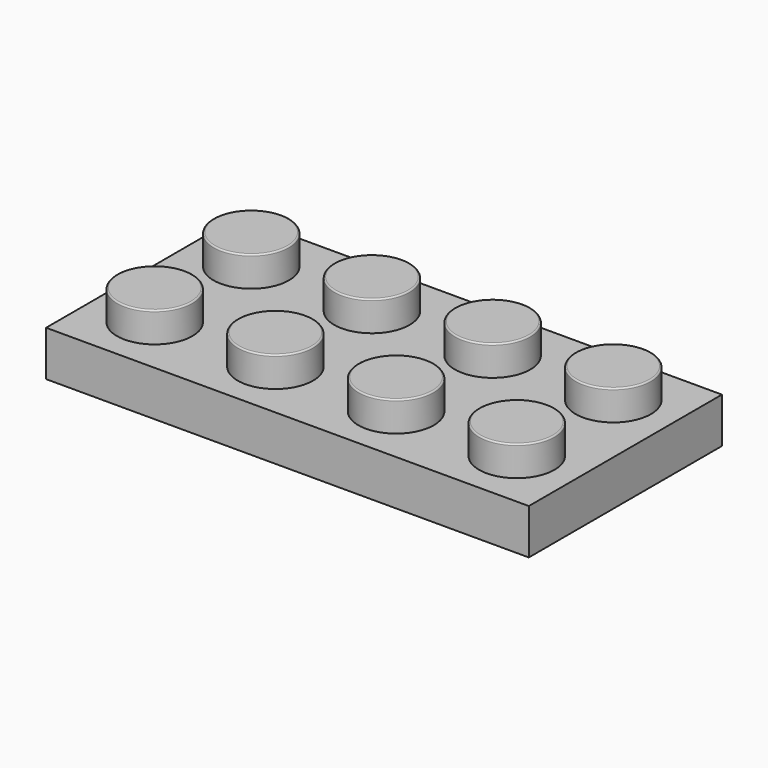
from build123d import *

# Parameters (mm, degrees)
F0_W     = 32
F0_H     = 16
F1_DEPTH = 3
F2_R     = 2.5
F3_DEPTH = 2
F4_R     = 0.1
F5_T     = -1.5
F6_R     = 3
F6_R_2   = 2.25
F7_DEPTH = 1.5


with BuildPart() as f1:
    # F0 (on Top) → F1 (new body)
    with BuildSketch(Plane.XY):
        Rectangle(F0_W, F0_H)
    extrude(amount=F1_DEPTH)

    # F2 (on face) → F3 (join)
    with BuildSketch(Plane.XY.offset(3)):
        with Locations((-12, 4)):
            Circle(F2_R)
        with Locations((-12, -4)):
            Circle(F2_R)
        with Locations((-4, 4)):
            Circle(F2_R)
        with Locations((-4, -4)):
            Circle(F2_R)
        with Locations((4, 4)):
            Circle(F2_R)
        with Locations((4, -4)):
            Circle(F2_R)
        with Locations((12, 4)):
            Circle(F2_R)
        with Locations((12, -4)):
            Circle(F2_R)
    extrude(amount=F3_DEPTH)

    # F4
    f4_edges = [f1.edges().sort_by_distance(p)[0] for p in [
        (-14.5, 4, 5),
        (-6.5, 4, 5),
        (1.5, 4, 5),
        (9.5, 4, 5),
        (9.5, -4, 5),
        (1.5, -4, 5),
        (-6.5, -4, 5),
        (-14.5, -4, 5),
    ]]
    fillet(f4_edges, radius=F4_R)

    # F5
    f5_openings = [f1.faces().sort_by_distance(p)[0] for p in [
        (0, 0, 0),
    ]]
    offset(amount=F5_T, openings=f5_openings, kind=Kind.INTERSECTION)

    # F6 (on face) → F7 (join, through all)
    with BuildSketch(Plane(origin=(0, 0, 1.5), x_dir=(1, 0, 0), z_dir=(0, 0, -1))):
        with Locations((-8, 0)):
            Circle(F6_R)
        with Locations((-8, 0)):
            Circle(F6_R_2, mode=Mode.SUBTRACT)
        Circle(F6_R)
        Circle(F6_R_2, mode=Mode.SUBTRACT)
        with Locations((8, 0)):
            Circle(F6_R)
        with Locations((8, 0)):
            Circle(F6_R_2, mode=Mode.SUBTRACT)
    extrude(amount=F7_DEPTH)


solid = f1.part
